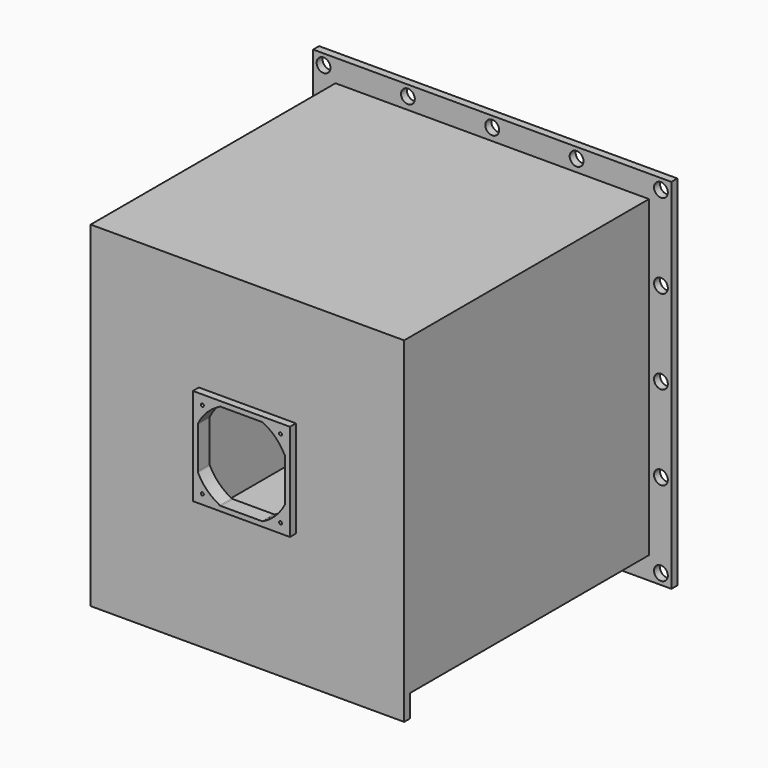
from build123d import *

# Parameters (mm, degrees)
F0_W      = 420
F0_H      = 420
F1_DEPTH  = 420
F2_W      = 400
F2_H      = 400
F3_DEPTH  = 410
F4_W      = 480
F4_H      = 480
F4_W_2    = 420
F4_H_2    = 420
F5_DEPTH  = 10
F6_W      = 130
F6_H      = 130
F7_DEPTH  = 10
F9_DEPTH  = 20
F10_R     = 2
F11_DEPTH = 20
F12_W     = 420
F12_H     = 420
F13_DEPTH = 0.5
F14_R     = 2
F15_R     = 9.25
F16_DEPTH = 10
F17_R     = 5
F18_DEPTH = 10
F19_W     = 420
F19_H     = 10
F20_DEPTH = 30
F21_R     = 3


with BuildPart() as f1:
    # F0 (on Front) → F1 (new body)
    with BuildSketch(Plane.XZ):
        Rectangle(F0_W, F0_H)
    extrude(amount=F1_DEPTH)

    # F2 (on face) → F3 (cut)
    with BuildSketch(Plane.XZ):
        Rectangle(F2_W, F2_H)
    extrude(amount=F3_DEPTH, mode=Mode.SUBTRACT)

    # F4 (on face) → F5 (join)
    with BuildSketch(Plane.XZ):
        Rectangle(F4_W, F4_H)
        Rectangle(F4_W_2, F4_H_2, mode=Mode.SUBTRACT)
    extrude(amount=F5_DEPTH)

    # F6 (on face) → F7 (join)
    with BuildSketch(Plane.XZ.offset(420)):
        Rectangle(F6_W, F6_H)
    extrude(amount=F7_DEPTH)

    # F8 (on face) → F9 (cut, through all)
    with BuildSketch(Plane.XZ.offset(430)):
        with BuildLine():
            Line((28.332843, 58.5), (-28.332843, 58.5))
            ThreePointArc((-28.332843, 58.5), (-45.961941, 45.961941), (-58.5, 28.332843))
            Line((-58.5, 28.332843), (-58.5, -28.332843))
            ThreePointArc((-58.5, -28.332843), (-45.961941, -45.961941), (-28.332843, -58.5))
            Line((-28.332843, -58.5), (28.332843, -58.5))
            ThreePointArc((28.332843, -58.5), (45.961941, -45.961941), (58.5, -28.332843))
            Line((58.5, -28.332843), (58.5, 28.332843))
            ThreePointArc((58.5, 28.332843), (45.961941, 45.961941), (28.332843, 58.5))
        make_face()
    extrude(amount=-F9_DEPTH, mode=Mode.SUBTRACT)

    # F10 (on face) → F11 (cut, through all)
    with BuildSketch(Plane.XZ.offset(430)):
        with Locations((52.4, 52.4)):
            Circle(F10_R)
        with Locations((52.4, -52.4)):
            Circle(F10_R)
        with Locations((-52.4, 52.4)):
            Circle(F10_R)
        with Locations((-52.4, -52.4)):
            Circle(F10_R)
    extrude(amount=-F11_DEPTH, mode=Mode.SUBTRACT)

    # F12 (on face) → F13 (cut)
    with BuildSketch(Plane(origin=(0, 0, 0), x_dir=(-1, 0, 0), z_dir=(0, 1, 0))):
        Rectangle(F12_W, F12_H)
    extrude(amount=-F13_DEPTH, mode=Mode.SUBTRACT)

    # F14
    f14_edges = [f1.edges().sort_by_distance(p)[0] for p in [
        (210, -0.25, 210),
        (-210, -0.25, 210),
        (-210, -0.25, -210),
        (210, -0.25, -210),
    ]]
    fillet(f14_edges, radius=F14_R)

    # F15 (on face) → F16 (cut, through all)
    with BuildSketch(Plane(origin=(0, 0, 0), x_dir=(-1, 0, 0), z_dir=(0, 1, 0))):
        with Locations((-226, 226)):
            Circle(F15_R)
        with Locations((226, 226)):
            Circle(F15_R)
        with Locations((-226, -226)):
            Circle(F15_R)
        with Locations((226, -226)):
            Circle(F15_R)
        with Locations((-113, 226)):
            Circle(F15_R)
        with Locations((0, 226)):
            Circle(F15_R)
        with Locations((113, 226)):
            Circle(F15_R)
        with Locations((-226, -113)):
            Circle(F15_R)
        with Locations((-226, 0)):
            Circle(F15_R)
        with Locations((-226, 113)):
            Circle(F15_R)
        with Locations((226, 113)):
            Circle(F15_R)
        with Locations((226, 0)):
            Circle(F15_R)
        with Locations((226, -113)):
            Circle(F15_R)
        with Locations((-113, -226)):
            Circle(F15_R)
        with Locations((0, -226)):
            Circle(F15_R)
        with Locations((113, -226)):
            Circle(F15_R)
    extrude(amount=-F16_DEPTH, mode=Mode.SUBTRACT)

    # F17 (on face) → F18 (cut, through all)
    with BuildSketch(Plane(origin=(0, 0, -210), x_dir=(1, 0, 0), z_dir=(0, 0, -1))):
        with Locations((0, 330)):
            Circle(F17_R)
    extrude(amount=-F18_DEPTH, mode=Mode.SUBTRACT)

    # F19 (on face) → F20 (join)
    with BuildSketch(Plane(origin=(0, 0, -210), x_dir=(1, 0, 0), z_dir=(0, 0, -1))):
        with Locations((0, 415)):
            Rectangle(F19_W, F19_H)
    extrude(amount=F20_DEPTH)

    # F21
    f21_edges = [f1.edges().sort_by_distance(p)[0] for p in [
        (-58.5, -420, 28.332843),
        (-28.332843, -420, 58.5),
        (-58.5, -420, -28.332843),
        (-28.332843, -420, -58.5),
        (28.332843, -420, -58.5),
        (58.5, -420, -28.332843),
        (58.5, -420, 28.332843),
        (28.332843, -420, 58.5),
    ]]
    fillet(f21_edges, radius=F21_R)


solid = f1.part
